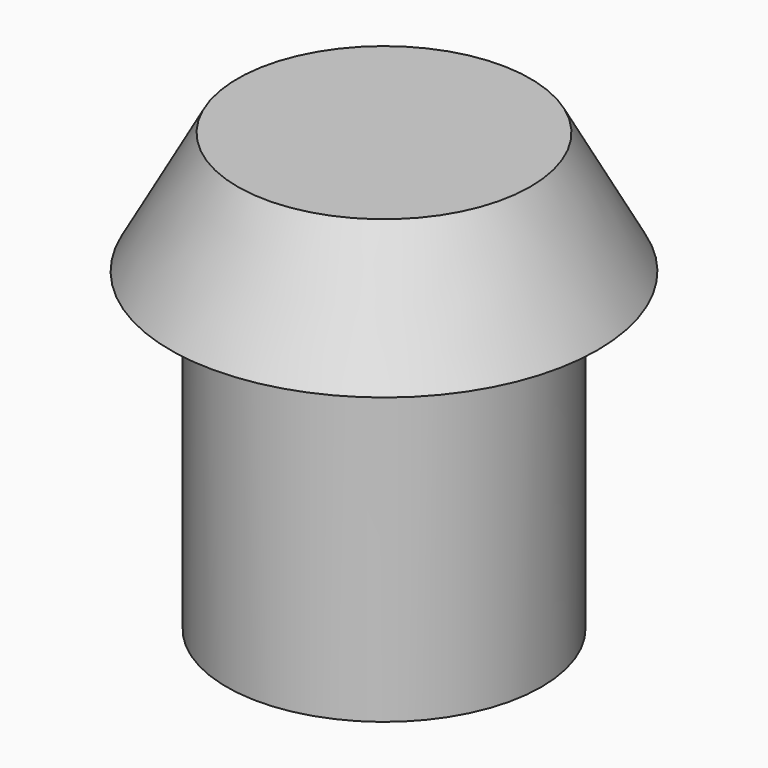
from build123d import *

# Parameters (mm, degrees)
CYLINDER_R     = 6.45
CYLINDER_DEPTH = 12.9


with BuildPart() as cone:
    # Cone → Cone (revolve)
    with BuildSketch(Plane.XZ):
        Polygon((0, 0), (8.75, 0), (6, 5), (0, 5), align=None)
    revolve(axis=Axis((0, 0, 0), (0, 0, 1)))


with BuildPart() as button:
    # Cylinder → Cylinder (new body)
    with BuildSketch(Plane.XY.offset(-12.9)):
        Circle(CYLINDER_R)
    extrude(amount=CYLINDER_DEPTH)

    # Fusion: union Cone
    add(cone.part)


with BuildPart() as button_1:
    # Fusion placement: moved
    add(button.part.moved(Location((16, 30, 27))))


solid = button_1.part
